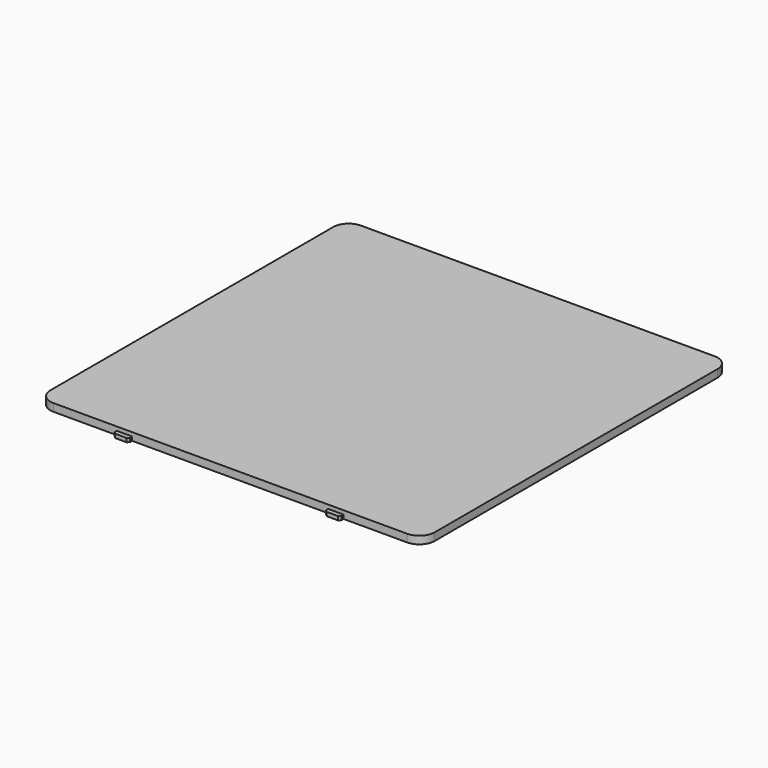
from build123d import *

# Parameters (mm, degrees)
PAD_DEPTH    = 1
PAD001_DEPTH = 1
CHAMFER_SIZE = 0.5


with BuildPart() as part:
    # Sketch → Pad (new body)
    with BuildSketch(Plane.XY):
        with BuildLine():
            Line((-46, 50), (-29.5, 50))
            Line((-29.5, 50.8), (-29.5, 50))
            Line((-25.5, 50.8), (-29.5, 50.8))
            Line((-25.5, 50), (-25.5, 50.8))
            Line((-25.5, 50), (25.5, 50))
            Line((25.5, 50.8), (25.5, 50))
            Line((29.5, 50.8), (25.5, 50.8))
            Line((29.5, 50), (29.5, 50.8))
            Line((29.5, 50), (46, 50))
            ThreePointArc((50, 46), (48.828427, 48.828427), (46, 50))
            Line((50, 46), (50, -46))
            ThreePointArc((46, -50), (48.828427, -48.828427), (50, -46))
            Line((46, -50), (29.5, -50))
            Line((29.5, -50), (29.5, -51.2))
            Line((29.5, -51.2), (25.5, -51.2))
            Line((25.5, -51.2), (25.5, -50))
            Line((25.5, -50), (-25.5, -50))
            Line((-25.5, -50), (-25.5, -51.2))
            Line((-25.5, -51.2), (-29.5, -51.2))
            Line((-29.5, -51.2), (-29.5, -50))
            Line((-29.5, -50), (-46, -50))
            ThreePointArc((-50, -46), (-48.828427, -48.828427), (-46, -50))
            Line((-50, -46), (-50, 46))
            ThreePointArc((-46, 50), (-48.828427, 48.828427), (-50, 46))
        make_face()
    extrude(amount=PAD_DEPTH)

    # Sketch001 (on Face26 of Pad) → Pad001 (join)
    with BuildSketch(Plane.XY.offset(1)):
        with BuildLine():
            Line((-46, 50), (46, 50))
            ThreePointArc((50, 46), (48.828427, 48.828427), (46, 50))
            Line((50, 46), (50, -46))
            ThreePointArc((46, -50), (48.828427, -48.828427), (50, -46))
            Line((46, -50), (-46, -50))
            ThreePointArc((-50, -46), (-48.828427, -48.828427), (-46, -50))
            Line((-50, -46), (-50, 46))
            ThreePointArc((-46, 50), (-48.828427, 48.828427), (-50, 46))
        make_face()
    extrude(amount=PAD001_DEPTH)

    # Chamfer
    chamfer_edges = [part.edges().sort_by_distance(p)[0] for p in [
        (-29.5, -51.2, 0.5),
        (-25.5, -51.2, 0.5),
        (25.5, -51.2, 0.5),
        (29.5, -51.2, 0.5),
        (-29.5, 50.8, 0.5),
        (-25.5, 50.8, 0.5),
        (25.5, 50.8, 0.5),
        (29.5, 50.8, 0.5),
    ]]
    chamfer(chamfer_edges, length=CHAMFER_SIZE)


solid = part.part
